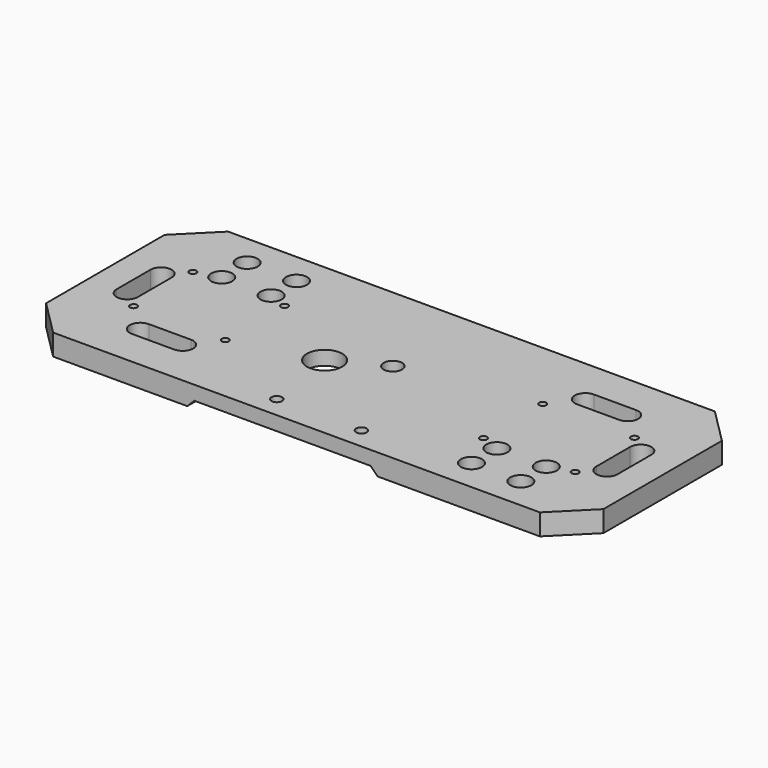
from build123d import *

# Parameters (mm, degrees)
CYLINDER025_R             = 0.5
CYLINDER025_DEPTH         = 10
CYLINDER026_R             = 0.5
CYLINDER026_DEPTH         = 10
CYLINDER027_R             = 0.5
CYLINDER027_DEPTH         = 10
CYLINDER024_R             = 0.5
CYLINDER024_DEPTH         = 10
CYLINDER007_R             = 1.5
CYLINDER007_DEPTH         = 10
CYLINDER008_R             = 1.5
CYLINDER008_DEPTH         = 10
CYLINDER009_R             = 1.5
CYLINDER009_DEPTH         = 10
CYLINDER006_R             = 1.5
CYLINDER006_DEPTH         = 10
BOX002_W                  = 3
BOX002_H                  = 6
BOX002_DEPTH              = 10
CYLINDER010_R             = 1.5
CYLINDER010_DEPTH         = 10
CYLINDER011_R             = 1.5
CYLINDER011_DEPTH         = 10
CYLINDER005_R             = 1.5
CYLINDER005_DEPTH         = 10
BOX001_W                  = 6
BOX001_H                  = 3
BOX001_DEPTH              = 10
CYLINDER004_R             = 1.5
CYLINDER004_DEPTH         = 10
BOX005_W                  = 29
BOX005_H                  = 31
BOX005_DEPTH              = 3
CYLINDER021_R             = 0.5
CYLINDER021_DEPTH         = 10
CYLINDER022_R             = 0.5
CYLINDER022_DEPTH         = 10
CYLINDER023_R             = 0.5
CYLINDER023_DEPTH         = 10
CYLINDER020_R             = 0.5
CYLINDER020_DEPTH         = 10
CYLINDER016_R             = 1.5
CYLINDER016_DEPTH         = 10
CYLINDER015_R             = 1.5
CYLINDER015_DEPTH         = 10
CYLINDER018_R             = 1.5
CYLINDER018_DEPTH         = 10
CYLINDER014_R             = 1.5
CYLINDER014_DEPTH         = 10
BOX004_W                  = 3
BOX004_H                  = 6
BOX004_DEPTH              = 10
CYLINDER017_R             = 1.5
CYLINDER017_DEPTH         = 10
CYLINDER019_R             = 1.5
CYLINDER019_DEPTH         = 10
CYLINDER012_R             = 1.5
CYLINDER012_DEPTH         = 10
BOX003_W                  = 6
BOX003_H                  = 3
BOX003_DEPTH              = 10
CYLINDER013_R             = 1.5
CYLINDER013_DEPTH         = 10
FUSION008_PLACEMENT_ANGLE = 180
BOX006_W                  = 25
BOX006_H                  = 31
BOX006_DEPTH              = 3
CYLINDER003_R             = 0.75
CYLINDER003_DEPTH         = 10
CYLINDER002_R             = 0.75
CYLINDER002_DEPTH         = 10
CYLINDER001_R             = 1.3
CYLINDER001_DEPTH         = 10
CYLINDER_R                = 2.5
CYLINDER_DEPTH            = 10
BOX_W                     = 27
BOX_H                     = 31
BOX_DEPTH                 = 2
CHAMFER_SIZE              = 5
CHAMFER001_SIZE           = 5
CHAMFER002_SIZE           = 0.99


with BuildPart() as zylinder025:
    # Cylinder025 → Cylinder025 (new body)
    with BuildSketch(Plane(origin=(-41, -22.5, 0), x_dir=(1, 0, 0), z_dir=(0, 0, 1))):
        Circle(CYLINDER025_R)
    extrude(amount=CYLINDER025_DEPTH)


with BuildPart() as zylinder026:
    # Cylinder026 → Cylinder026 (new body)
    with BuildSketch(Plane(origin=(-28, -12, 0), x_dir=(1, 0, 0), z_dir=(0, 0, 1))):
        Circle(CYLINDER026_R)
    extrude(amount=CYLINDER026_DEPTH)


with BuildPart() as zylinder027:
    # Cylinder027 → Cylinder027 (new body)
    with BuildSketch(Plane(origin=(-28, -22.5, 0), x_dir=(1, 0, 0), z_dir=(0, 0, 1))):
        Circle(CYLINDER027_R)
    extrude(amount=CYLINDER027_DEPTH)


with BuildPart() as fusion010:
    # Cylinder024 → Cylinder024 (new body)
    with BuildSketch(Plane(origin=(-41, -12, 0), x_dir=(1, 0, 0), z_dir=(0, 0, 1))):
        Circle(CYLINDER024_R)
    extrude(amount=CYLINDER024_DEPTH)

    # Fusion010: union Zylinder025, Zylinder026, Zylinder027
    add(zylinder025.part)
    add(zylinder026.part)
    add(zylinder027.part)


with BuildPart() as fusion010_1:
    # Fusion010 placement: moved
    add(fusion010.part.moved(Location((50, -0.5, 0))))


with BuildPart() as zylinder007:
    # Cylinder007 → Cylinder007 (new body)
    with BuildSketch(Plane(origin=(18.7, -24, 0), x_dir=(1, 0, 0), z_dir=(0, 0, 1))):
        Circle(CYLINDER007_R)
    extrude(amount=CYLINDER007_DEPTH)


with BuildPart() as zylinder008:
    # Cylinder008 → Cylinder008 (new body)
    with BuildSketch(Plane(origin=(18.7, -28.5, 0), x_dir=(1, 0, 0), z_dir=(0, 0, 1))):
        Circle(CYLINDER008_R)
    extrude(amount=CYLINDER008_DEPTH)


with BuildPart() as zylinder009:
    # Cylinder009 → Cylinder009 (new body)
    with BuildSketch(Plane(origin=(11.7, -28.5, 0), x_dir=(1, 0, 0), z_dir=(0, 0, 1))):
        Circle(CYLINDER009_R)
    extrude(amount=CYLINDER009_DEPTH)


with BuildPart() as fusion002:
    # Cylinder006 → Cylinder006 (new body)
    with BuildSketch(Plane(origin=(11.7, -24, 0), x_dir=(1, 0, 0), z_dir=(0, 0, 1))):
        Circle(CYLINDER006_R)
    extrude(amount=CYLINDER006_DEPTH)

    # Fusion002: union Zylinder007, Zylinder008, Zylinder009
    add(zylinder007.part)
    add(zylinder008.part)
    add(zylinder009.part)


with BuildPart() as obj1:
    # Box002 → Box002 (new body)
    with BuildSketch(Plane(origin=(23, -20.5, 0), x_dir=(1, 0, 0), z_dir=(0, 0, 1))):
        with Locations((1.5, 3)):
            Rectangle(BOX002_W, BOX002_H)
    extrude(amount=BOX002_DEPTH)


with BuildPart() as zylinder010:
    # Cylinder010 → Cylinder010 (new body)
    with BuildSketch(Plane(origin=(24.5, -14.5, 0), x_dir=(1, 0, 0), z_dir=(0, 0, 1))):
        Circle(CYLINDER010_R)
    extrude(amount=CYLINDER010_DEPTH)


with BuildPart() as fusion003:
    # Cylinder011 → Cylinder011 (new body)
    with BuildSketch(Plane(origin=(24.5, -20.5, 0), x_dir=(1, 0, 0), z_dir=(0, 0, 1))):
        Circle(CYLINDER011_R)
    extrude(amount=CYLINDER011_DEPTH)

    # Fusion003: union obj1, Zylinder010
    add(obj1.part)
    add(zylinder010.part)


with BuildPart() as zylinder005:
    # Cylinder005 → Cylinder005 (new body)
    with BuildSketch(Plane(origin=(18, -8.7, 0), x_dir=(1, 0, 0), z_dir=(0, 0, 1))):
        Circle(CYLINDER005_R)
    extrude(amount=CYLINDER005_DEPTH)


with BuildPart() as obj2:
    # Box001 → Box001 (new body)
    with BuildSketch(Plane(origin=(12, -10.2, 0), x_dir=(1, 0, 0), z_dir=(0, 0, 1))):
        with Locations((3, 1.5)):
            Rectangle(BOX001_W, BOX001_H)
    extrude(amount=BOX001_DEPTH)


with BuildPart() as fusion011:
    # Cylinder004 → Cylinder004 (new body)
    with BuildSketch(Plane(origin=(12, -8.7, 0), x_dir=(1, 0, 0), z_dir=(0, 0, 1))):
        Circle(CYLINDER004_R)
    extrude(amount=CYLINDER004_DEPTH)

    # Fusion001: union Zylinder005, obj2
    add(zylinder005.part)
    add(obj2.part)

    # Fusion004: union Fusion002, Fusion003
    add(fusion002.part)
    add(fusion003.part)

    # Fusion011: union Fusion010
    add(fusion010_1.part)


with BuildPart() as cut003:
    # Box005 → Box005 (new body)
    with BuildSketch(Plane(origin=(1, -33, 0), x_dir=(1, 0, 0), z_dir=(0, 0, 1))):
        with Locations((14.5, 15.5)):
            Rectangle(BOX005_W, BOX005_H)
    extrude(amount=BOX005_DEPTH)

    # Cut003: cut Fusion011
    add(fusion011.part, mode=Mode.SUBTRACT)


with BuildPart() as zylinder021:
    # Cylinder021 → Cylinder021 (new body)
    with BuildSketch(Plane(origin=(-41, -22.5, 0), x_dir=(1, 0, 0), z_dir=(0, 0, 1))):
        Circle(CYLINDER021_R)
    extrude(amount=CYLINDER021_DEPTH)


with BuildPart() as zylinder022:
    # Cylinder022 → Cylinder022 (new body)
    with BuildSketch(Plane(origin=(-28, -12, 0), x_dir=(1, 0, 0), z_dir=(0, 0, 1))):
        Circle(CYLINDER022_R)
    extrude(amount=CYLINDER022_DEPTH)


with BuildPart() as zylinder023:
    # Cylinder023 → Cylinder023 (new body)
    with BuildSketch(Plane(origin=(-28, -22.5, 0), x_dir=(1, 0, 0), z_dir=(0, 0, 1))):
        Circle(CYLINDER023_R)
    extrude(amount=CYLINDER023_DEPTH)


with BuildPart() as fusion009:
    # Cylinder020 → Cylinder020 (new body)
    with BuildSketch(Plane(origin=(-41, -12, 0), x_dir=(1, 0, 0), z_dir=(0, 0, 1))):
        Circle(CYLINDER020_R)
    extrude(amount=CYLINDER020_DEPTH)

    # Fusion009: union Zylinder021, Zylinder022, Zylinder023
    add(zylinder021.part)
    add(zylinder022.part)
    add(zylinder023.part)


with BuildPart() as zylinder016:
    # Cylinder016 → Cylinder016 (new body)
    with BuildSketch(Plane(origin=(18.7, -24, 0), x_dir=(1, 0, 0), z_dir=(0, 0, 1))):
        Circle(CYLINDER016_R)
    extrude(amount=CYLINDER016_DEPTH)


with BuildPart() as zylinder015:
    # Cylinder015 → Cylinder015 (new body)
    with BuildSketch(Plane(origin=(18.7, -28.5, 0), x_dir=(1, 0, 0), z_dir=(0, 0, 1))):
        Circle(CYLINDER015_R)
    extrude(amount=CYLINDER015_DEPTH)


with BuildPart() as zylinder018:
    # Cylinder018 → Cylinder018 (new body)
    with BuildSketch(Plane(origin=(11.7, -28.5, 0), x_dir=(1, 0, 0), z_dir=(0, 0, 1))):
        Circle(CYLINDER018_R)
    extrude(amount=CYLINDER018_DEPTH)


with BuildPart() as fusion006:
    # Cylinder014 → Cylinder014 (new body)
    with BuildSketch(Plane(origin=(11.7, -24, 0), x_dir=(1, 0, 0), z_dir=(0, 0, 1))):
        Circle(CYLINDER014_R)
    extrude(amount=CYLINDER014_DEPTH)

    # Fusion006: union Zylinder016, Zylinder015, Zylinder018
    add(zylinder016.part)
    add(zylinder015.part)
    add(zylinder018.part)


with BuildPart() as obj3:
    # Box004 → Box004 (new body)
    with BuildSketch(Plane(origin=(23, -20.5, 0), x_dir=(1, 0, 0), z_dir=(0, 0, 1))):
        with Locations((1.5, 3)):
            Rectangle(BOX004_W, BOX004_H)
    extrude(amount=BOX004_DEPTH)


with BuildPart() as zylinder017:
    # Cylinder017 → Cylinder017 (new body)
    with BuildSketch(Plane(origin=(24.5, -14.5, 0), x_dir=(1, 0, 0), z_dir=(0, 0, 1))):
        Circle(CYLINDER017_R)
    extrude(amount=CYLINDER017_DEPTH)


with BuildPart() as fusion007:
    # Cylinder019 → Cylinder019 (new body)
    with BuildSketch(Plane(origin=(24.5, -20.5, 0), x_dir=(1, 0, 0), z_dir=(0, 0, 1))):
        Circle(CYLINDER019_R)
    extrude(amount=CYLINDER019_DEPTH)

    # Fusion007: union obj3, Zylinder017
    add(obj3.part)
    add(zylinder017.part)


with BuildPart() as zylinder012:
    # Cylinder012 → Cylinder012 (new body)
    with BuildSketch(Plane(origin=(18, -8.7, 0), x_dir=(1, 0, 0), z_dir=(0, 0, 1))):
        Circle(CYLINDER012_R)
    extrude(amount=CYLINDER012_DEPTH)


with BuildPart() as obj4:
    # Box003 → Box003 (new body)
    with BuildSketch(Plane(origin=(12, -10.2, 0), x_dir=(1, 0, 0), z_dir=(0, 0, 1))):
        with Locations((3, 1.5)):
            Rectangle(BOX003_W, BOX003_H)
    extrude(amount=BOX003_DEPTH)


with BuildPart() as fusion012:
    # Cylinder013 → Cylinder013 (new body)
    with BuildSketch(Plane(origin=(12, -8.7, 0), x_dir=(1, 0, 0), z_dir=(0, 0, 1))):
        Circle(CYLINDER013_R)
    extrude(amount=CYLINDER013_DEPTH)

    # Fusion005: union Zylinder012, obj4
    add(zylinder012.part)
    add(obj4.part)

    # Fusion008: union Fusion006, Fusion007
    add(fusion006.part)
    add(fusion007.part)


with BuildPart() as fusion012_1:
    # Fusion008 placement: moved
    add(fusion012.part.moved(Location((-19, -35, 0))).rotate(Axis((-19, -35, 0), (0, 0, 1)), FUSION008_PLACEMENT_ANGLE))

    # Fusion012: union Fusion009
    add(fusion009.part)


with BuildPart() as cut004:
    # Box006 → Box006 (new body)
    with BuildSketch(Plane(origin=(-49, -33, 0), x_dir=(1, 0, 0), z_dir=(0, 0, 1))):
        with Locations((12.5, 15.5)):
            Rectangle(BOX006_W, BOX006_H)
    extrude(amount=BOX006_DEPTH)

    # Cut004: cut Fusion012
    add(fusion012_1.part, mode=Mode.SUBTRACT)


with BuildPart() as zylinder003:
    # Cylinder003 → Cylinder003 (new body)
    with BuildSketch(Plane(origin=(-14.7, -30, 0), x_dir=(1, 0, 0), z_dir=(0, 0, 1))):
        Circle(CYLINDER003_R)
    extrude(amount=CYLINDER003_DEPTH)


with BuildPart() as fusion:
    # Cylinder002 → Cylinder002 (new body)
    with BuildSketch(Plane(origin=(-2.7, -30, 0), x_dir=(1, 0, 0), z_dir=(0, 0, 1))):
        Circle(CYLINDER002_R)
    extrude(amount=CYLINDER002_DEPTH)

    # Fusion: union Zylinder003
    add(zylinder003.part)


with BuildPart() as zylinder001:
    # Cylinder001 → Cylinder001 (new body)
    with BuildSketch(Plane(origin=(-9.6, -15.8, 0), x_dir=(1, 0, 0), z_dir=(0, 0, 1))):
        Circle(CYLINDER001_R)
    extrude(amount=CYLINDER001_DEPTH)


with BuildPart() as zylinder:
    # Cylinder → Cylinder (new body)
    with BuildSketch(Plane(origin=(-16.4, -19.4, 0), x_dir=(1, 0, 0), z_dir=(0, 0, 1))):
        Circle(CYLINDER_R)
    extrude(amount=CYLINDER_DEPTH)


with BuildPart() as plate:
    # Box → Box (new body)
    with BuildSketch(Plane(origin=(-25, -33, 1), x_dir=(1, 0, 0), z_dir=(0, 0, 1))):
        with Locations((13.5, 15.5)):
            Rectangle(BOX_W, BOX_H)
    extrude(amount=BOX_DEPTH)

    # Cut: cut Zylinder
    add(zylinder.part, mode=Mode.SUBTRACT)

    # Cut001: cut Zylinder001
    add(zylinder001.part, mode=Mode.SUBTRACT)

    # Cut002: cut Fusion
    add(fusion.part, mode=Mode.SUBTRACT)

    # Fusion013: union Cut003, Cut004
    add(cut003.part)
    add(cut004.part)

    # Chamfer
    chamfer_edges = [plate.edges().sort_by_distance(p)[0] for p in [
        (30, -33, 1.5),
        (30, -2, 1.5),
    ]]
    chamfer(chamfer_edges, length=CHAMFER_SIZE)

    # Chamfer001
    chamfer001_edges = [plate.edges().sort_by_distance(p)[0] for p in [
        (-49, -33, 1.5),
        (-49, -2, 1.5),
    ]]
    chamfer(chamfer001_edges, length=CHAMFER001_SIZE)

    # Chamfer002
    chamfer002_edges = [plate.edges().sort_by_distance(p)[0] for p in [
        (-24, -17.5, 0),
        (1, -17.5, 0),
    ]]
    chamfer(chamfer002_edges, length=CHAMFER002_SIZE)


solid = plate.part
